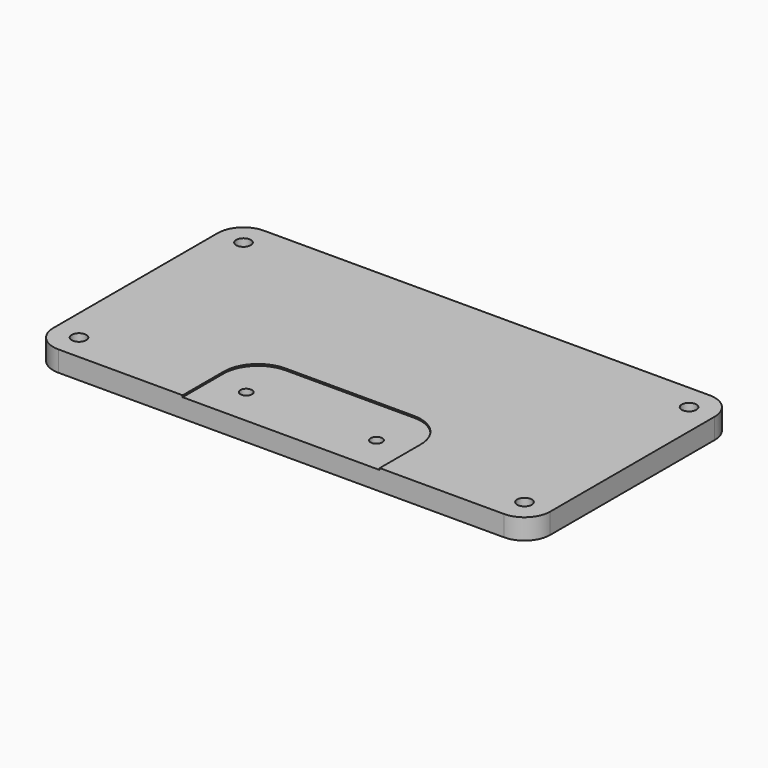
from build123d import *

# Parameters (mm, degrees)
F0_W     = 290
F0_H     = 150
F1_DEPTH = 12
F2_R     = 15
F4_D     = 8.5
F3_W     = 115
F3_H     = 8
F5_DEPTH = 1
F6_D     = 6.8


with BuildPart() as f1:
    # F0 (on Top) → F1 (new body)
    with BuildSketch(Plane.XY):
        with Locations((0, 75)):
            Rectangle(F0_W, F0_H)
    extrude(amount=-F1_DEPTH)

    # F2
    f2_edges = [f1.edges().sort_by_distance(p)[0] for p in [
        (-145, 150, -6),
        (-145, 0, -6),
        (145, 150, -6),
        (145, 0, -6),
    ]]
    fillet(f2_edges, radius=F2_R)

    # F4 (through all)
    with Locations(Plane.XY):
        with Locations((130, 135), (130, 15), (-130, 135), (-130, 15)):
            Hole(F4_D / 2)

    # F3 (on face) → F5 (cut)
    with BuildSketch(Plane.XY):
        with Locations((0, -4)):
            Rectangle(F3_W, F3_H)
        with BuildLine():
            Line((57.5, 0), (57.5, 30))
            ThreePointArc((57.5, 30), (51.6421356237, 44.1421356237), (37.5, 50))
            Line((37.5, 50), (-37.5, 50))
            ThreePointArc((-37.5, 50), (-51.6421356237, 44.1421356237), (-57.5, 30))
            Line((-57.5, 30), (-57.5, 0))
            Line((-57.5, 0), (57.5, 0))
        make_face()
    extrude(amount=-F5_DEPTH, mode=Mode.SUBTRACT)

    # F6 (through all)
    with Locations(Plane.XY):
        with Locations((38, 22), (-38, 22)):
            Hole(F6_D / 2)


solid = f1.part
